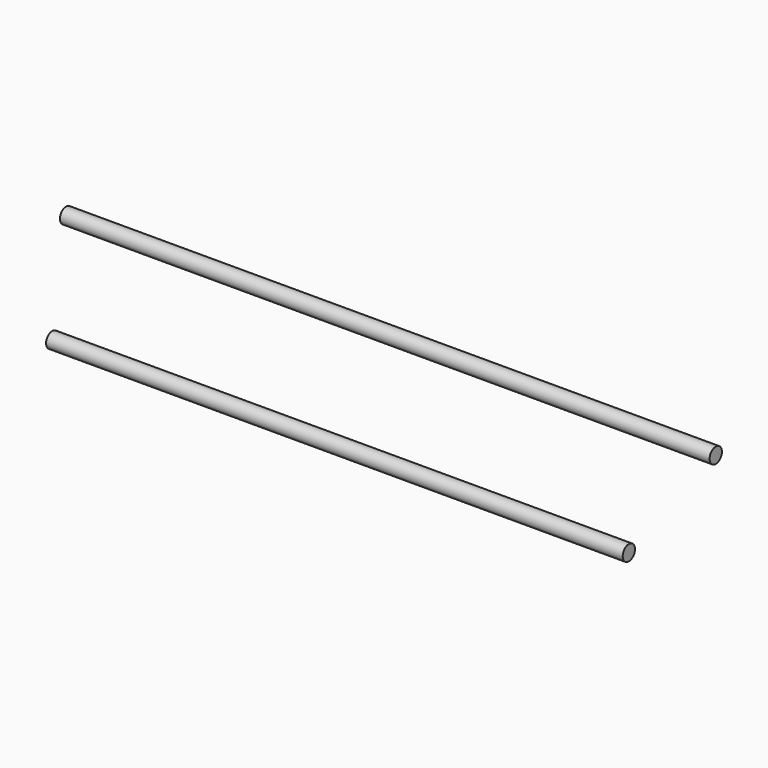
from build123d import *

# Parameters (mm, degrees)
F1_R     = 4
F2_DEPTH = 150
F3_R     = 4
F4_DEPTH = 169


with BuildPart() as f2:
    # F1 (on Right) → F2 (new body, symmetric)
    with BuildSketch(Plane.YZ):
        Circle(F1_R)
    extrude(amount=F2_DEPTH, both=True)


with BuildPart() as f4:
    # F3 (on Right) → F4 (new body, symmetric)
    with BuildSketch(Plane.YZ):
        with Locations((32.7752940357, 37.4855212867)):
            Circle(F3_R)
    extrude(amount=F4_DEPTH, both=True)


solid = Compound([f2.part, f4.part])
